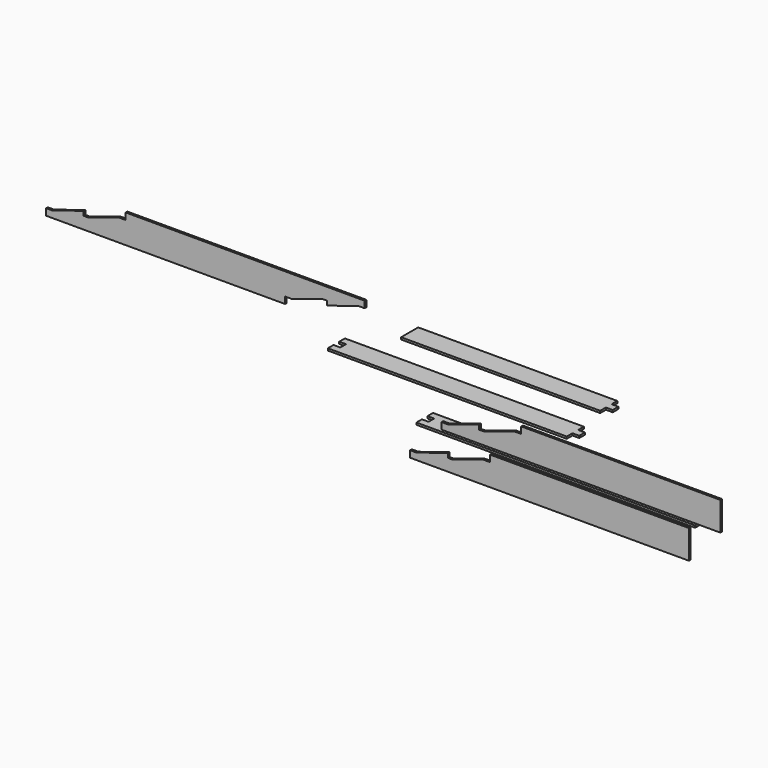
from build123d import *

# Parameters (mm, degrees)
F1_DEPTH = 23.8125
F3_DEPTH = 23.8125
F5_DEPTH = 23.8125
F7_DEPTH = 23.8125


with BuildPart() as f1:
    # F0 (on Front) → F1 (new body)
    with BuildSketch(Plane.XZ):
        Polygon((1671.637719, 159.794337), (-614.362281, 159.794337), (-614.362281, 83.594337), (-690.562281, 83.594337), (-1046.162281, -30.705663), (-1096.962281, -30.705663), (-1096.962281, 20.094337), (-1452.562281, -94.205663), (-1528.762281, -94.205663), (-1528.762281, -170.405663), (1671.637719, -170.405663), align=None)
        Polygon((2031.712441, 561.335063), (-254.287559, 561.335063), (-254.287559, 485.135063), (-330.487559, 485.135063), (-686.087559, 370.835063), (-736.887559, 370.835063), (-736.887559, 421.635063), (-1092.487559, 307.335063), (-1168.687559, 307.335063), (-1168.687559, 231.135063), (2031.712441, 231.135063), align=None)
    extrude(amount=F1_DEPTH)


with BuildPart() as f3:
    # F2 (on face) → F3 (new body)
    with BuildSketch(Plane.XZ):
        Polygon((-2051.454745, 1246.878364), (-4794.654745, 1246.878364), (-4794.654745, 1170.678364), (-4870.854745, 1170.678364), (-5226.454745, 1056.378364), (-5277.254745, 1056.378364), (-5277.254745, 1107.178364), (-5632.854745, 992.878364), (-5709.054745, 992.878364), (-5709.054745, 916.678364), (-2965.854745, 916.678364), (-2965.854745, 992.878364), (-2889.654745, 992.878364), (-2534.054745, 1107.178364), (-2483.254745, 1107.178364), (-2483.254745, 1056.378364), (-2127.654745, 1170.678364), (-2051.454745, 1170.678364), align=None)
    extrude(amount=F3_DEPTH)


with BuildPart() as f5:
    # F4 (on Top) → F5 (new body)
    with BuildSketch(Plane.XY):
        Polygon((1520.233008, 493.100312), (-1680.166992, 493.100312), (-1680.166992, 413.725312), (-1603.966992, 413.725312), (-1603.966992, 334.350312), (-1680.166992, 334.350312), (-1680.166992, 254.975312), (1520.233008, 254.975312), align=None)
    extrude(amount=F5_DEPTH)


with BuildPart() as f7:
    # F6 (on face) → F7 (new body)
    with BuildSketch(Plane.XY.offset(23.8125)):
        Polygon((-429.113752, 1093.725422), (-3172.313752, 1093.725422), (-3172.313752, 1012.082565), (-3093.936609, 1012.082565), (-3093.936609, 930.439708), (-3172.313752, 930.439708), (-3172.313752, 848.796851), (-429.113752, 848.796851), (-429.113752, 930.439708), (-350.736609, 930.439708), (-350.736609, 1012.082565), (-429.113752, 1012.082565), align=None)
        Polygon((-507.101898, 1671.577396), (-2793.101898, 1671.577396), (-2793.101898, 1426.648825), (-507.101898, 1426.648825), (-507.101898, 1508.291682), (-428.724755, 1508.291682), (-428.724755, 1589.934539), (-507.101898, 1589.934539), align=None)
    extrude(amount=F7_DEPTH)


solid = Compound([f1.part, f3.part, f5.part, f7.part])
